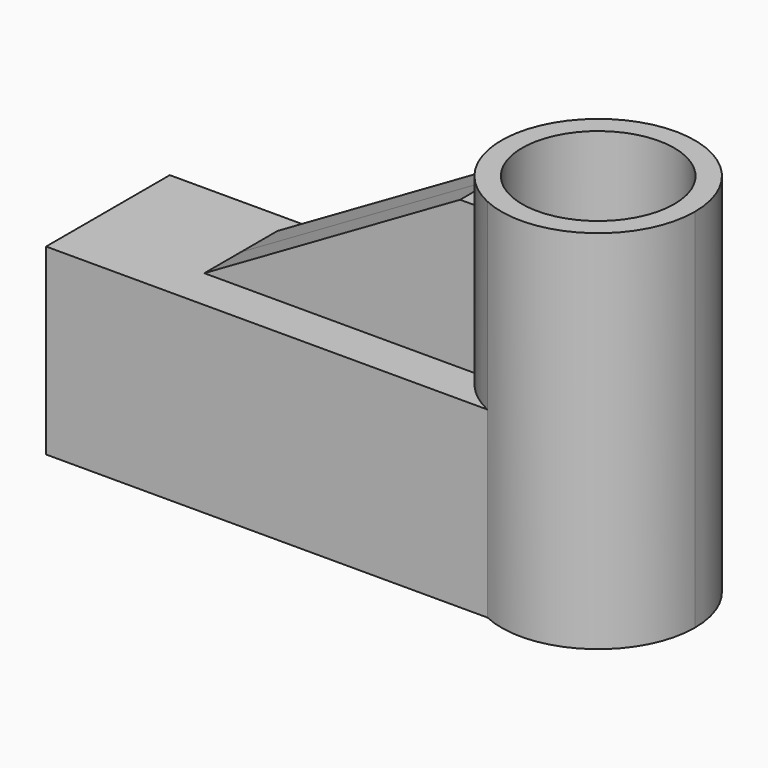
from build123d import *

# Parameters (mm, degrees)
F1_DEPTH  = 25.4
F0_R      = 10.550798
F2_DEPTH  = 50.8
F4_DEPTH  = 6.35
F4_FACE_W = 6.35
F4_FACE_H = 20.509356
F5_DEPTH  = 2.54
F6_DEPTH  = 6.35


with BuildPart() as f1:
    # F0 (on Top) → F1 (new body)
    with BuildSketch(Plane.XY):
        with BuildLine():
            Line((-4.458389, 9.278268), (-59.164021, 9.278268))
            Line((-59.164021, 9.278268), (-59.164021, -12.170196))
            Line((-59.164021, -12.170196), (-4.458389, -12.170196))
            Line((-4.458389, -12.170196), (2.049189, -12.170196))
            ThreePointArc((2.049189, -12.170196), (-5.493572, -2.487583), (-1.999147, 9.278268))
            Line((-1.999147, 9.278268), (-4.458389, 9.278268))
        make_face()
    extrude(amount=F1_DEPTH)

    # F0 (on Top) → F2 (join)
    with BuildSketch(Plane.XY):
        with BuildLine():
            ThreePointArc((21.098027, 0), (12.685318, 12.445538), (-1.999147, 9.278268))
            ThreePointArc((-1.999147, 9.278268), (-5.493572, -2.487583), (2.049189, -12.170196))
            ThreePointArc((2.049189, -12.170196), (14.906878, -11.302344), (21.098027, 0))
        make_face()
        with Locations((7.685874, 0)):
            Circle(F0_R, mode=Mode.SUBTRACT)
    extrude(amount=F2_DEPTH)

    # F3 (on Front) → F4 (join)
    with BuildSketch(Plane.XZ):
        Polygon((-6.386341, 45.909356), (-43.499414, 24.460889), (-43.499414, 23.014925), (-6.386341, 23.014925), align=None)
    extrude(amount=F4_DEPTH)

    # F4_face (on face) → F5 (join)
    with BuildSketch(Plane(origin=(-6.386341, -3.175, 35.654678), x_dir=(0, 1, 0), z_dir=(1, 0, 0))):
        Rectangle(F4_FACE_W, F4_FACE_H)
    extrude(amount=F5_DEPTH)

    # F5_face (on face) → F6 (join)
    with BuildSketch(Plane(origin=(-17.779611, 0, 32.359046), x_dir=(1, 0, 0), z_dir=(0, 1, 0))):
        Polygon((11.39327, -13.55031), (12.053331, -13.55031), (12.053331, 6.959046), (-24.094825, 6.959046), align=None)
    extrude(amount=F6_DEPTH)


solid = f1.part
